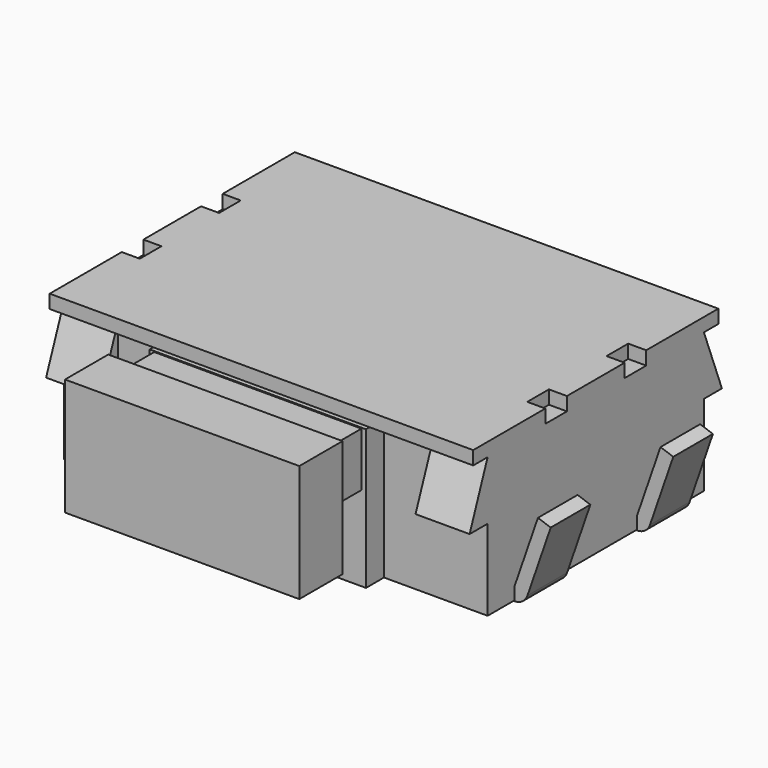
from build123d import *

# Parameters (mm, degrees)
EXTRUDE_DEPTH    = 0.55
ARRAY_Y_COUNT    = 2
ARRAY_Y_PITCH    = 1.7
EXTRUDE003_DEPTH = 0.15
BOX_W            = 2.6
BOX_H            = 0.6
BOX_DEPTH        = 1.3
BOX001_W         = 2.3
BOX001_H         = 1
BOX001_DEPTH     = 0.6
EXTRUDE004_DEPTH = 0.6
ARRAY001_X_COUNT = 2
ARRAY001_X_PITCH = 4.1
ARRAY002_COUNT   = 2
EXTRUDE002_DEPTH = 1.55
SKETCH001_R      = 0.275
EXTRUDE001_DEPTH = 0.5
FILLET_R         = 0.15
ARRAY003_Y_COUNT = 2
ARRAY003_Y_PITCH = 2.7


with BuildPart() as leftlegs:
    # Sketch → Extrude (new body)
    with BuildSketch(Plane.XZ.offset(0.575)):
        with BuildLine():
            Line((-2.75, 0.85), (-2.491809, 0.101109))
            ThreePointArc((-2.491809, 0.101109), (-2.437082, 0.027866), (-2.35, 0))
            Line((-2.15, 0), (-2.35, 0))
            Line((-2.15, 0.15), (-2.15, 0))
            Line((-2.35, 0.15), (-2.15, 0.15))
            Line((-2.608191, 0.898891), (-2.35, 0.15))
            Line((-2.75, 0.85), (-2.608191, 0.898891))
        make_face()
    extrude(amount=EXTRUDE_DEPTH)


with BuildPart() as leftlegs_1:
    # Extrude placement: moved
    add(leftlegs.part.moved(Location((0, 0, -0.01))))

    # Array Y: leftlegs ×2


with BuildPart() as leftlegs_2:
    add(leftlegs_1.part)
    with Locations(*[(0, i * ARRAY_Y_PITCH, 0) for i in range(1, ARRAY_Y_COUNT)]):
        add(leftlegs_1.part)


with BuildPart() as cover:
    # Sketch003 → Extrude003 (new body)
    with BuildSketch(Plane.XY.offset(1.55)):
        Polygon((-2.35, 1.7), (2.35, 1.7), (2.35, 0.7), (2.15, 0.7), (2.15, 0.4), (2.35, 0.4), (2.35, -0.4), (2.15, -0.4), (2.15, -0.7), (2.35, -0.7), (2.35, -1.7), (-2.35, -1.7), (-2.35, -0.7), (-2.15, -0.7), (-2.15, -0.4), (-2.35, -0.4), (-2.35, 0.4), (-2.15, 0.4), (-2.15, 0.7), (-2.35, 0.7), align=None)
    extrude(amount=EXTRUDE003_DEPTH)


with BuildPart() as metal:
    # mirror: instance of leftlegs
    add(leftlegs_2.part.mirror(Plane(origin=(0, 0, 0), x_dir=(0, -1, 0), z_dir=(1, 0, 0))))

    # Fusion: union leftlegs, cover
    add(leftlegs_2.part)
    add(cover.part)


with BuildPart() as notch:
    # Box → Box (new body)
    with BuildSketch(Plane(origin=(-1.3, -2.8, 0.35), x_dir=(1, 0, 0), z_dir=(0, 0, 1))):
        with Locations((1.3, 0.3)):
            Rectangle(BOX_W, BOX_H)
    extrude(amount=BOX_DEPTH)


with BuildPart() as obj1:
    # Box001 → Box001 (new body)
    with BuildSketch(Plane(origin=(-1.15, -2.2, 0.94), x_dir=(1, 0, 0), z_dir=(0, 0, 1))):
        with Locations((1.15, 0.5)):
            Rectangle(BOX001_W, BOX001_H)
    extrude(amount=BOX001_DEPTH)

    # Fusion001: union notch
    add(notch.part)


with BuildPart() as claws:
    # Sketch004 → Extrude004 (new body)
    with BuildSketch(Plane.YZ.offset(1.75)):
        Polygon((-1.5, 0.9), (-1.75, 0.9), (-1.5, 1.55), align=None)
    extrude(amount=EXTRUDE004_DEPTH)

    # Array001 X: claws ×2


with BuildPart() as claws_1:
    add(claws.part)
    with Locations(*[(-i * ARRAY001_X_PITCH, 0, 0) for i in range(1, ARRAY001_X_COUNT)]):
        add(claws.part)

    # Array002: claws ×2 about axis
    array002_axis = Axis((0, 0, 0), (0, 0, 1))


with BuildPart() as claws_2:
    add(claws_1.part)
    for i in range(1, ARRAY002_COUNT):
        add(claws_1.part.rotate(array002_axis, i * 360 / ARRAY002_COUNT))


with BuildPart() as housing:
    # Sketch002 → Extrude002 (new body)
    with BuildSketch(Plane.XY):
        Polygon((-2.35, 1.5), (-1.2, 1.5), (-1.2, 1.75), (1.2, 1.75), (1.2, 1.5), (2.35, 1.5), (2.35, -1.5), (1.2, -1.5), (1.2, -1.75), (-1.2, -1.75), (-1.2, -1.5), (-2.35, -1.5), align=None)
    extrude(amount=EXTRUDE002_DEPTH)


with BuildPart() as obj2:
    # Sketch001 → Extrude001 (new body)
    with BuildSketch(Plane.XY):
        with Locations((0, -1.35)):
            Circle(SKETCH001_R)
    extrude(amount=-EXTRUDE001_DEPTH)

    # Fillet
    fillet_edges = [obj2.edges().sort_by_distance(p)[0] for p in [
        (-0.275, -1.35, -0.5),
    ]]
    fillet(fillet_edges, radius=FILLET_R)

    # Array003 Y: obj2 ×2


with BuildPart() as obj2_1:
    add(obj2.part)
    with Locations(*[(0, i * ARRAY003_Y_PITCH, 0) for i in range(1, ARRAY003_Y_COUNT)]):
        add(obj2.part)

    # Fusion002: union claws, housing
    add(claws_2.part)
    add(housing.part)

    # Fusion003: union metal, obj1
    add(metal.part)
    add(obj1.part)


solid = obj2_1.part
